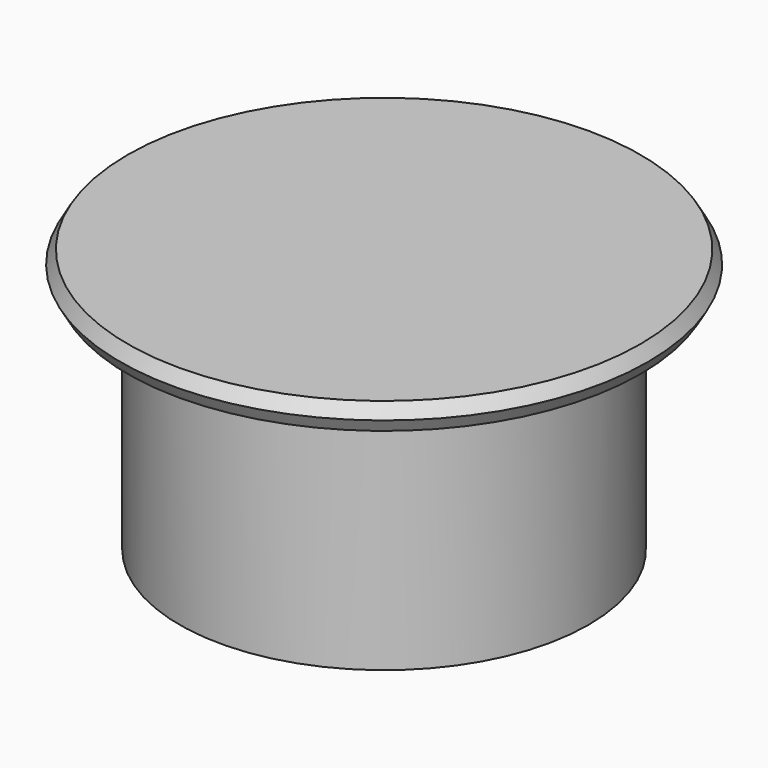
from build123d import *

# Parameters (mm, degrees)
F0_R          = 20
F1_DEPTH      = 1
F1_TAPER      = 30
F1_DEPTH_BACK = 1
F1_TAPER_BACK = 30
F2_R          = 15.5
F2_R_2        = 15
F3_DEPTH      = 18


with BuildPart() as f1:
    # F0 (on Top) → F1 (new body, two sides)
    with BuildSketch(Plane.XY) as f1_sk:
        Circle(F0_R)
    extrude(amount=F1_DEPTH, taper=F1_TAPER)
    extrude(f1_sk.sketch, amount=-F1_DEPTH_BACK, taper=F1_TAPER_BACK)

    # F2 (on face) → F3 (join)
    with BuildSketch(Plane(origin=(0, 0, -1), x_dir=(1, 0, 0), z_dir=(0, 0, -1))):
        Circle(F2_R)
        Circle(F2_R_2, mode=Mode.SUBTRACT)
    extrude(amount=F3_DEPTH)


solid = f1.part
